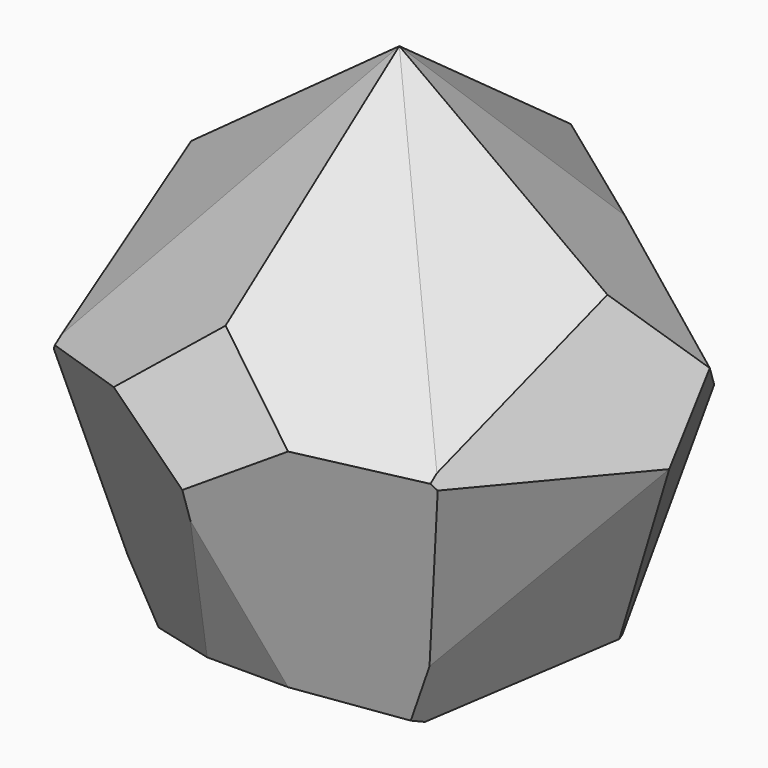
from build123d import *

# Parameters (mm, degrees)
F5_COUNT = 4
F6_COUNT = 2
F6_ANGLE = 90


with BuildPart() as f2:
    # F0 (on Front) → F2 section 0
    with BuildSketch(Plane.XZ, mode=Mode.PRIVATE) as f2_s0:
        Polygon((-12.204321, 0), (12.204321, 0), (19.747007, 23.213998), (0, 37.561038), (-19.747007, 23.213998), align=None)
    loft([f2_s0.sketch, Vertex(0, 38.1, 16.787151)])

    # F4: F2 across plane


with BuildPart() as f2_1:
    add(f2.part)
    add(f2.part.mirror(Plane.XZ))


with BuildPart() as f5_1:
    # F5: instance of F2
    add(f2_1.part.rotate(Axis((0, 0, 18.392423), (0, 0, 1)), 1 * 360 / F5_COUNT))


with BuildPart() as f5_2:
    # F5: instance of F2
    add(f2_1.part.rotate(Axis((0, 0, 18.392423), (0, 0, 1)), 2 * 360 / F5_COUNT))


with BuildPart() as f5_3:
    # F5: instance of F2
    add(f2_1.part.rotate(Axis((0, 0, 18.392423), (0, 0, 1)), 3 * 360 / F5_COUNT))


with BuildPart() as f6_1:
    # F6: instance of F2
    add(f2_1.part.rotate(Axis((0.121067, 0, 18.392423), (-1, 0, 0)), 1 * F6_ANGLE / (F6_COUNT - 1)))


with BuildPart() as f2_2:
    add(f2_1.part)

    # F7: intersect F5_1, F6_1, F5_2, F5_3
    add(f5_1.part, mode=Mode.INTERSECT)
    add(f6_1.part, mode=Mode.INTERSECT)
    add(f5_2.part, mode=Mode.INTERSECT)
    add(f5_3.part, mode=Mode.INTERSECT)


solid = f2_2.part
